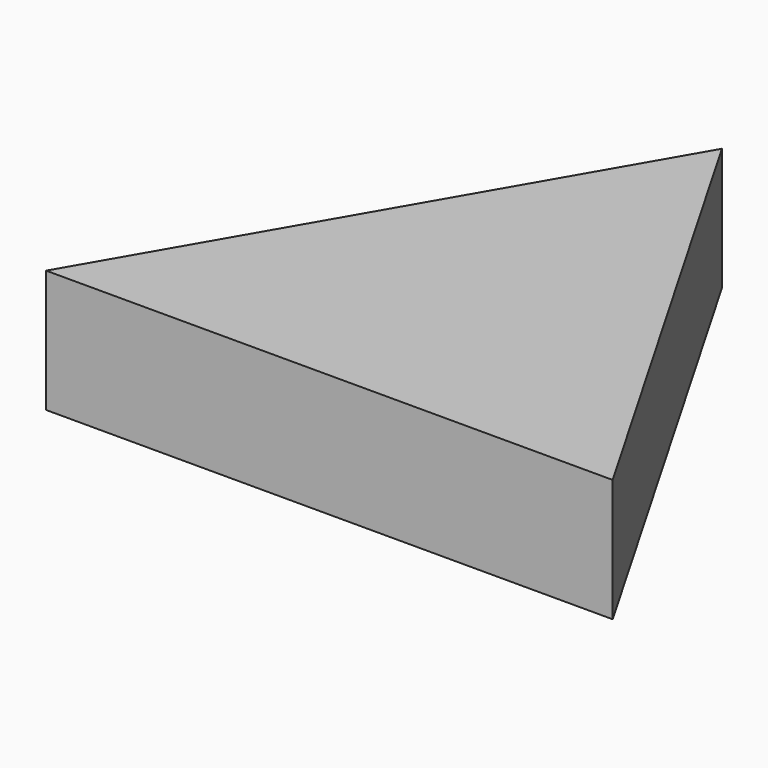
from build123d import *

# Parameters (mm, degrees)
PAD_DEPTH = 10


with BuildPart() as part:
    # Sketch → Pad (new body)
    with BuildSketch(Plane.XY):
        Polygon((-23.094011, -20), (0, 20), (23.094011, -20), align=None)
    extrude(amount=PAD_DEPTH)


solid = part.part
